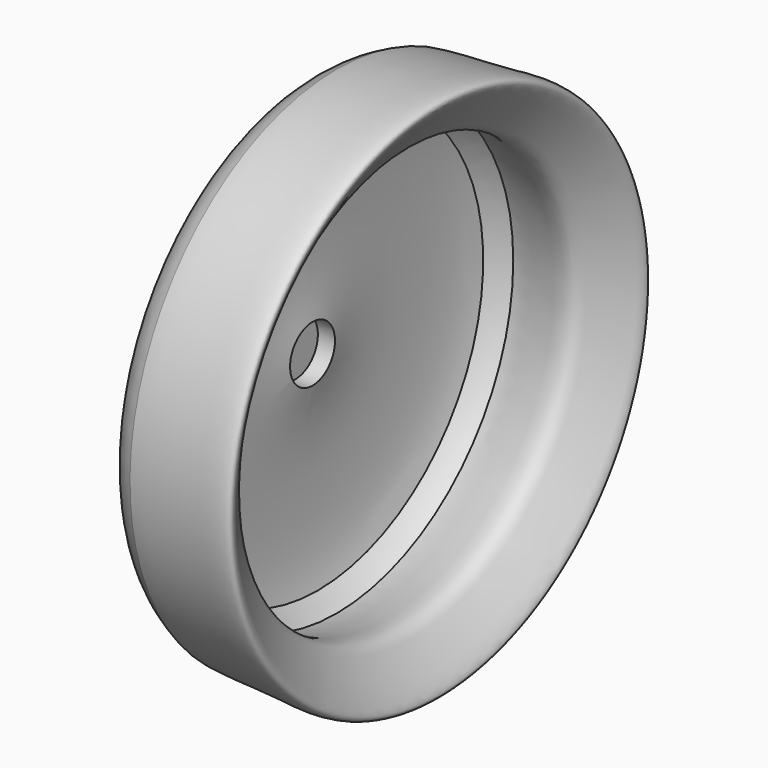
from build123d import *


with BuildPart() as f1:
    # F0 (on Front) → F1 (revolve)
    with BuildSketch(Plane.XZ):
        with BuildLine():
            Line((0, 4.8892499771), (0, 0))
            Line((0, 0), (13.4703844504, 0))
            Line((13.4703844504, 0), (13.4703844504, 7.8854212034))
            Line((13.4703844504, 7.8854212034), (18.2835152883, 7.8854212034))
            add(Edge.make_bspline(
                [(19.7826191295, 58.0572025918), (17.8335590226, 52.4471451864), (16.2426285763, 36.9139396244), (16.2571254085, 17.9699584316), (18.2835152883, 7.8854212034)],
                knots=[0, 0, 0, 0, 0.4544145268, 1, 1, 1, 1], degree=3))
            ThreePointArc((19.7826191295, 58.0572025918), (22.2666852239, 60.2372118596), (25.0449335956, 62.0272846946))
            add(Edge.make_bspline(
                [(25.0449335956, 72.5405053556), (29.3261469951, 73.2513126197), (40.4980322866, 72.9793920522), (58.4873266538, 75.6623446598), (47.9910017048, 64.5001212795), (44.5367963089, 55.692587177), (29.8017418989, 61.7410048111), (25.0449335956, 62.0272846946)],
                knots=[0, 0, 0, 0, 0.229722716, 0.4243182867, 0.5989886066, 0.7613633455, 1, 1, 1, 1], degree=3))
            add(Edge.make_bspline(
                [(25.0449335956, 72.5405053556), (22.7219305608, 71.4663212652), (16.7928015797, 68.7246218674), (13.3619010734, 57.0752780804), (11.2752101996, 49.9900888357)],
                knots=[0, 0, 0, 0, 0.3917949908, 1, 1, 1, 1], degree=3))
            add(Edge.make_bspline(
                [(2.0504690139, 33.7393051757), (2.665329475, 35.2003555209), (2.5675073151, 44.3560169012), (5.9601369277, 44.1859253123), (9.6079048573, 48.3134984791), (11.2752101996, 49.9900888357)],
                knots=[0, 0, 0, 0, 0.4123997011, 0.6319744729, 1, 1, 1, 1], degree=3))
            Line((2.0504690139, 33.7393051757), (2.0504690139, 30.4103687883))
            Line((2.0504690139, 30.4103687883), (10.8138929003, 30.4103687883))
            Line((10.8138929003, 30.4103687883), (10.8138929003, 20.9107687883))
            Line((10.8138929003, 20.9107687883), (2.0504690139, 20.9107687883))
            Line((2.0504690139, 20.9107687883), (2.0504690139, 12.7))
            Line((2.0504690139, 12.7), (9.8092639819, 12.7))
            Line((9.8092639819, 12.7), (9.8092639819, 7.7841216698))
            Line((9.8092639819, 7.7841216698), (6.6853011078, 7.7841216698))
            Line((6.6853011078, 7.7841216698), (6.6853011078, 4.8892499771))
            Line((6.6853011078, 4.8892499771), (0, 4.8892499771))
        make_face()
    revolve(axis=Axis((6.7351922252, 0, 0), (1, 0, 0)))


solid = f1.part
